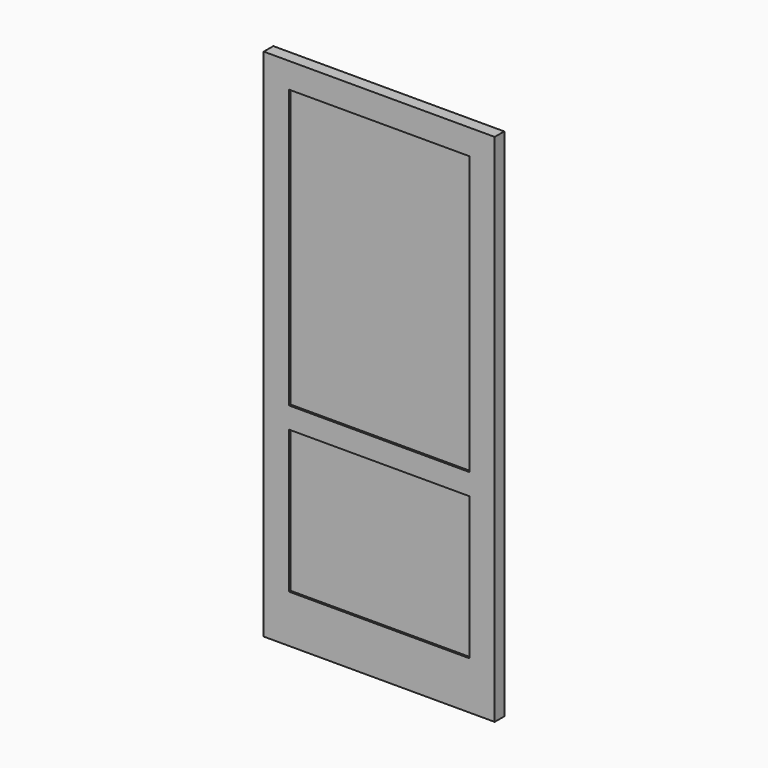
from build123d import *

# Parameters (mm, degrees)
F0_W     = 1104.9
F0_H     = 2463.8
F0_W_2   = 863.6
F0_H_2   = 101.6
F1_DEPTH = 28.575
F0_H_3   = 1330.325
F0_H_4   = 682.625
F2_DEPTH = 19.05


with BuildPart() as f1:
    # F0 (on Front) → F1 (new body, symmetric)
    with BuildSketch(Plane.XZ):
        with Locations((-552.45, 1231.9)):
            Rectangle(F0_W, F0_H)
        Polygon((-984.25, 1012.825), (-984.25, 2343.15), (-120.65, 2343.15), (-120.65, 1012.825), (-120.65, 911.225), (-120.65, 228.6), (-984.25, 228.6), (-984.25, 911.225), align=None, mode=Mode.SUBTRACT)
        with Locations((-552.45, 962.025)):
            Rectangle(F0_W_2, F0_H_2)
    extrude(amount=F1_DEPTH, both=True)

    # F0 (on Front) → F2 (join, symmetric)
    with BuildSketch(Plane.XZ):
        with Locations((-552.45, 1677.9875)):
            Rectangle(F0_W_2, F0_H_3)
        with Locations((-552.45, 569.9125)):
            Rectangle(F0_W_2, F0_H_4)
    extrude(amount=F2_DEPTH, both=True)


solid = f1.part
